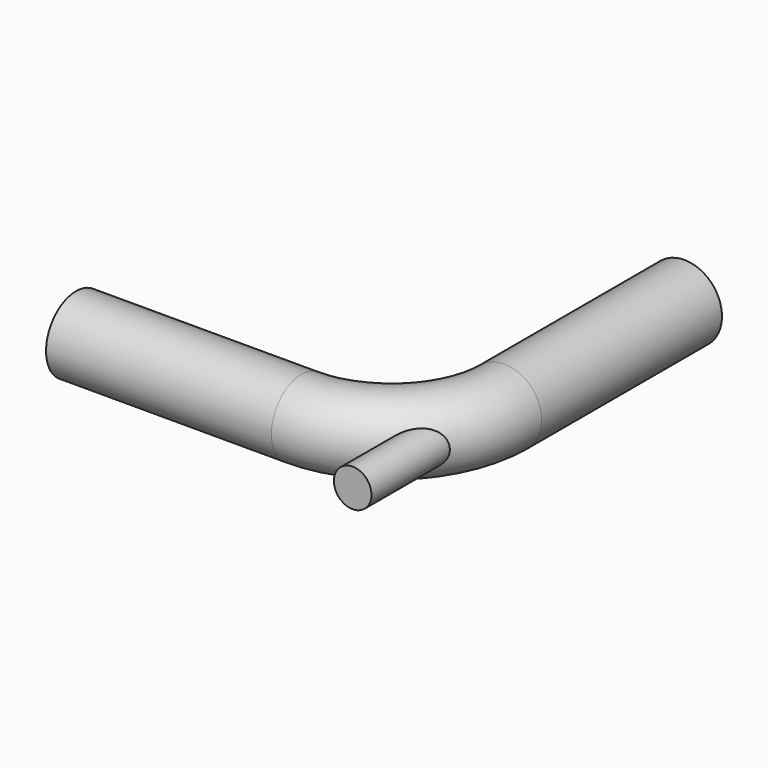
from build123d import *

# Parameters (mm, degrees)
F1_R     = 127
F4_R     = 63.5
F5_DEPTH = 558.8


with BuildPart() as f2:
    # F2: sweep along a path in F0
    with BuildLine(Plane.XY) as f2_path:
        Line((0, 0), (762, 0))
        ThreePointArc((762, 0), (1031.407684, 111.592316), (1143, 381))
        Line((1143, 381), (1143, 1143))
    # F1 (on Right) → F2 (sweep)
    with BuildSketch(Plane.YZ):
        Circle(F1_R)
    sweep(path=f2_path.line)

    # F4 (on face) → F5 (join)
    with BuildSketch(Plane.XZ.offset(232.210245)):
        with Locations((1121.210245, 0)):
            Circle(F4_R)
    extrude(amount=-F5_DEPTH)


solid = f2.part
